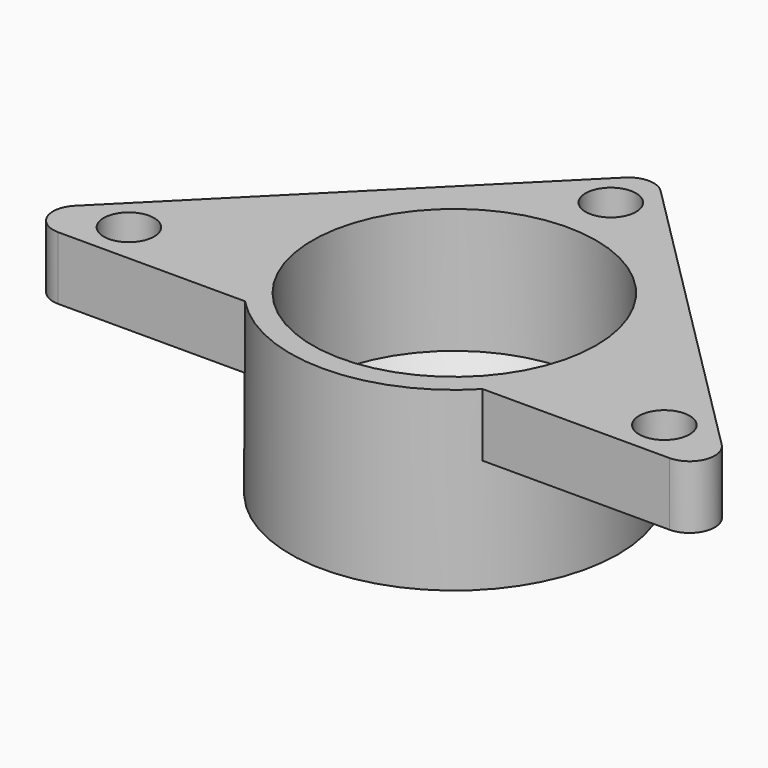
from build123d import *

# Parameters (mm, degrees)
SKETCH_R        = 2
PAD_DEPTH       = 5
SKETCH001_R     = 13
PAD001_DEPTH    = 9
SKETCH002_R     = 8
POCKET_DEPTH    = 18.001
SKETCH003_W     = 37.242641
SKETCH003_H     = 5
POCKET001_DEPTH = 41.926514
SKETCH004_R     = 11.25
POCKET002_DEPTH = 13
CHAMFER_SIZE    = 3.1


with BuildPart() as part:
    # Sketch → Pad (new body)
    with BuildSketch(Plane.XY):
        with BuildLine():
            Line((1.414214, 0), (49.84062, 0))
            ThreePointArc((49.84062, 0), (51.688379, 1.234633), (51.254834, 3.414214))
            Line((51.254834, 3.414214), (27.041631, 27.627417))
            ThreePointArc((27.041631, 27.627417), (25.627417, 28.213203), (24.213203, 27.627417))
            Line((0, 3.414214), (24.213203, 27.627417))
            ThreePointArc((0, 3.414214), (-0.433546, 1.234633), (1.414214, 0))
        make_face()
        with Locations((4.414214, 3.25)):
            Circle(SKETCH_R, mode=Mode.SUBTRACT)
        with Locations((46.84062, 3.25)):
            Circle(SKETCH_R, mode=Mode.SUBTRACT)
        with Locations((25.627417, 24.463203)):
            Circle(SKETCH_R, mode=Mode.SUBTRACT)
    extrude(amount=PAD_DEPTH)

    # Sketch001 (on Face10 of Pad) → Pad001 (join, symmetric)
    with BuildSketch(Plane(origin=(0, 0, 0), x_dir=(1, 0, 0), z_dir=(0, 0, -1))):
        with Locations((25.627417, -8.963203)):
            Circle(SKETCH001_R)
    extrude(amount=PAD001_DEPTH, both=True)

    # Sketch002 (on Face15 of Pad001) → Pocket (cut, through all)
    with BuildSketch(Plane(origin=(0, 0, -9), x_dir=(1, 0, 0), z_dir=(0, 0, -1))):
        with Locations((25.627417, -8.963203)):
            Circle(SKETCH002_R)
    extrude(amount=-POCKET_DEPTH, mode=Mode.SUBTRACT)

    # Sketch003 (on Face8 of Pocket) → Pocket001 (cut, through all)
    with BuildSketch(Plane(origin=(27.334524, 27.334524, 0), x_dir=(-0.707107, 0.707107, 0), z_dir=(0.707107, 0.707107, 0))):
        with Locations((-15.207106, 7.5)):
            Rectangle(SKETCH003_W, SKETCH003_H)
    extrude(amount=-POCKET001_DEPTH, mode=Mode.SUBTRACT)

    # Sketch004 (on Face15 of Pocket001) → Pocket002 (cut)
    with BuildSketch(Plane.XY.offset(5)):
        with Locations((25.627417, 8.963203)):
            Circle(SKETCH004_R)
    extrude(amount=-POCKET002_DEPTH, mode=Mode.SUBTRACT)

    # Chamfer
    chamfer_edges = [part.edges().sort_by_distance(p)[0] for p in [
        (14.377417, 8.963203, -8),
    ]]
    chamfer(chamfer_edges, length=CHAMFER_SIZE)


solid = part.part
